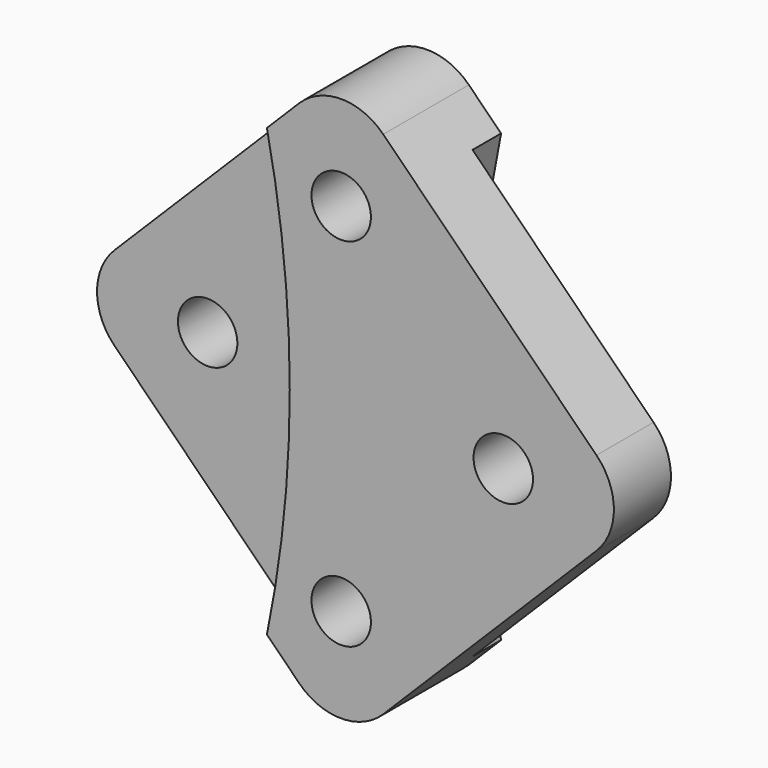
from build123d import *

# Parameters (mm, degrees)
F1_DEPTH = 1.8
F2_DEPTH = 1.2
F4_DEPTH = 0.6
F5_R     = 1
F6_R     = 0.5
F7_DEPTH = 12.5


with BuildPart() as f1:
    # F0 (on Front) → F1 (new body)
    with BuildSketch(Plane.XZ):
        with BuildLine():
            Line((5, 0), (0, 5))
            Line((0, 5), (-1.249147, 3.750853))
            ThreePointArc((-1.249147, 3.750853), (-0.864917, 0), (-1.249147, -3.750853))
            Line((-1.249147, -3.750853), (0, -5))
            Line((0, -5), (5, 0))
        make_face()
    extrude(amount=F1_DEPTH)

    # F0 (on Front) → F2 (join)
    with BuildSketch(Plane.XZ):
        with BuildLine():
            ThreePointArc((-1.249147, -3.750853), (-0.864917, 0), (-1.249147, 3.750853))
            Line((-1.249147, 3.750853), (-5, 0))
            Line((-5, 0), (-1.249147, -3.750853))
        make_face()
    extrude(amount=F2_DEPTH)

    # F3 (on face) → F4 (cut)
    with BuildSketch(Plane.XZ):
        with BuildLine():
            ThreePointArc((1.249147, 3.750853), (0.864917, 0), (1.249147, -3.750853))
            Line((1.249147, -3.750853), (5, 0))
            Line((5, 0), (1.249147, 3.750853))
        make_face()
    extrude(amount=F4_DEPTH, mode=Mode.SUBTRACT)

    # F5
    f5_edges = [f1.edges().sort_by_distance(p)[0] for p in [
        (0, -0.9, 5),
        (5, -1.2, 0),
        (0, -0.9, -5),
        (-5, -0.6, 0),
    ]]
    fillet(f5_edges, radius=F5_R)

    # F6 (on Front) → F7 (cut, symmetric)
    with BuildSketch(Plane.XZ):
        with Locations((-2.725786, 0)):
            Circle(F6_R)
        with Locations((2.725786, 0)):
            Circle(F6_R)
        with Locations((0, 3)):
            Circle(F6_R)
        with Locations((0, -3)):
            Circle(F6_R)
    extrude(amount=F7_DEPTH, both=True, mode=Mode.SUBTRACT)


solid = f1.part
